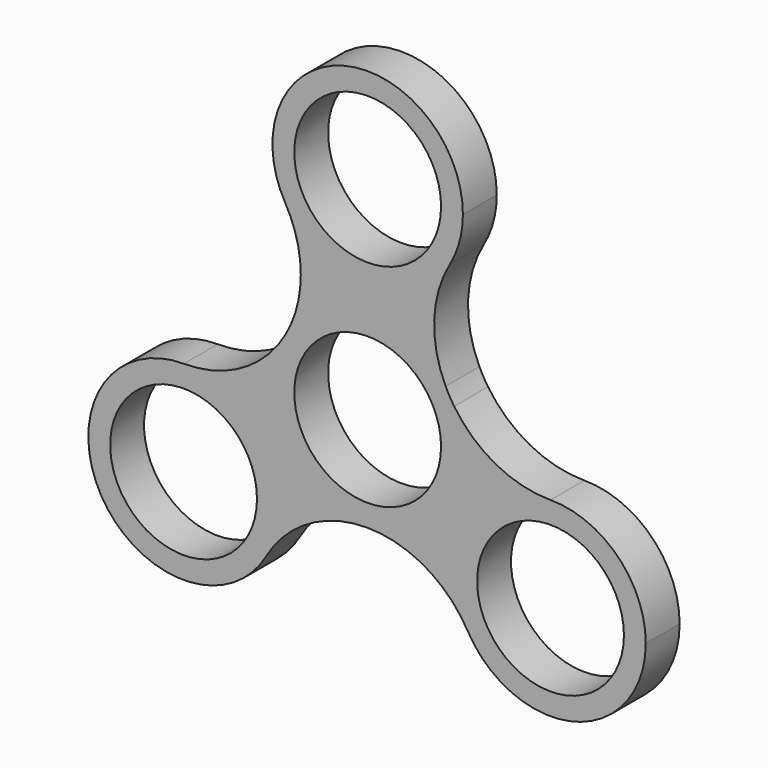
from build123d import *

# Parameters (mm, degrees)
F0_R     = 11.0109
F1_DEPTH = 6.35


with BuildPart() as f1:
    # F0 (on Front) → F1 (new body)
    with BuildSketch(Plane.XZ):
        with BuildLine():
            ThreePointArc((-12.3733379796, 24.6062500399), (-0.0274921787, 17.4625264504), (12.3457542252, 24.5586851785))
            ThreePointArc((12.3457542252, 24.5586851785), (13.7935242005, 28.0255743558), (14.2875, 31.75))
            ThreePointArc((14.2875, 31.75), (-3.6978770846, 45.5506652491), (-12.3733379796, 24.6062500399))
        make_face()
        with Locations((0, 31.75)):
            Circle(F0_R, mode=Mode.SUBTRACT)
        with BuildLine():
            ThreePointArc((-12.3733379176, 7.1437500675), (-0.6313413892, 14.2735442095), (11.6942925407, 8.2082993502))
            ThreePointArc((11.6942925407, 8.2082993502), (9.9863540663, 16.4645214005), (12.3457542252, 24.5586851785))
            ThreePointArc((12.3457542252, 24.5586851785), (-0.0274921787, 17.4625264504), (-12.3733379796, 24.6062500399))
            ThreePointArc((-12.3733379796, 24.6062500399), (-10.6288268346, 20.3946275974), (-10.0338065702, 15.875))
            ThreePointArc((-10.0338065702, 15.875), (-10.6288268185, 11.3553724626), (-12.3733379176, 7.1437500675))
        make_face()
        with BuildLine():
            ThreePointArc((-0.0549843517, -14.2873941981), (10.0833294929, -10.1222093728), (14.2875, 0))
            ThreePointArc((14.2875, 0), (13.9564974416, 3.057586534), (12.9788266264, 5.9735011218))
            ThreePointArc((12.9788266264, 5.9735011218), (12.2952680668, 7.0671663883), (11.6942925407, 8.2082993502))
            ThreePointArc((11.6942925407, 8.2082993502), (-0.6313413892, 14.2735442095), (-12.3733379176, 7.1437500675))
            ThreePointArc((-12.3733379176, 7.1437500675), (-12.3870611826, -7.1199277742), (-0.0549843517, -14.2873941981))
        make_face()
        Circle(F0_R, mode=Mode.SUBTRACT)
        with BuildLine():
            ThreePointArc((-15.2451557121, -23.0185149788), (-8.8243212537, -16.6100235917), (-0.0549843517, -14.2873941981))
            ThreePointArc((-0.0549843517, -14.2873941981), (-12.3870611826, -7.1199277742), (-12.3733379176, 7.1437500675))
            ThreePointArc((-12.3733379176, 7.1437500675), (-18.7941724786, 0.7352586382), (-27.5635095047, -1.5873706872))
            ThreePointArc((-27.5635095047, -1.5873706872), (-17.4962843274, -5.7914353078), (-13.3309936151, -15.8747648862))
            ThreePointArc((-13.3309936151, -15.8747648862), (-13.8178283859, -19.5726420447), (-15.2451557121, -23.0185149788))
        make_face()
        with BuildLine():
            ThreePointArc((-27.5635095047, -1.5873706872), (-40.0055547448, -22.9946927523), (-15.2451557121, -23.0185149788))
            ThreePointArc((-15.2451557121, -23.0185149788), (-13.8178283859, -19.5726420447), (-13.3309936151, -15.8747648862))
            ThreePointArc((-13.3309936151, -15.8747648862), (-17.4962843274, -5.7914353078), (-27.5635095047, -1.5873706872))
        make_face()
        with Locations((-27.6184936151, -15.8747648862)):
            Circle(F0_R, mode=Mode.SUBTRACT)
        with BuildLine():
            ThreePointArc((12.9788266264, 5.9735011218), (13.9564974416, 3.057586534), (14.2875, 0))
            ThreePointArc((14.2875, 0), (10.0833294929, -10.1222093728), (-0.0549843517, -14.2873941981))
            ThreePointArc((-0.0549843517, -14.2873941981), (8.6671977023, -16.6605097019), (15.034271116, -23.0767791104))
            ThreePointArc((15.034271116, -23.0767791104), (15.0754403986, -8.8131539558), (27.4350094206, -1.693199528))
            ThreePointArc((27.4350094206, -1.693199528), (19.2533298904, 0.3420834154), (12.9788266264, 5.9735011218))
        make_face()
        with BuildLine():
            ThreePointArc((41.7225094331, -15.980699528), (37.5377975649, -5.8779113874), (27.4350094206, -1.693199528))
            ThreePointArc((27.4350094206, -1.693199528), (15.0754403986, -8.8131539558), (15.034271116, -23.0767791104))
            ThreePointArc((15.034271116, -23.0767791104), (31.1063244253, -29.7884546851), (41.7225094331, -15.980699528))
        make_face()
        with Locations((27.4350094331, -15.980699528)):
            Circle(F0_R, mode=Mode.SUBTRACT)
    extrude(amount=F1_DEPTH)


solid = f1.part
